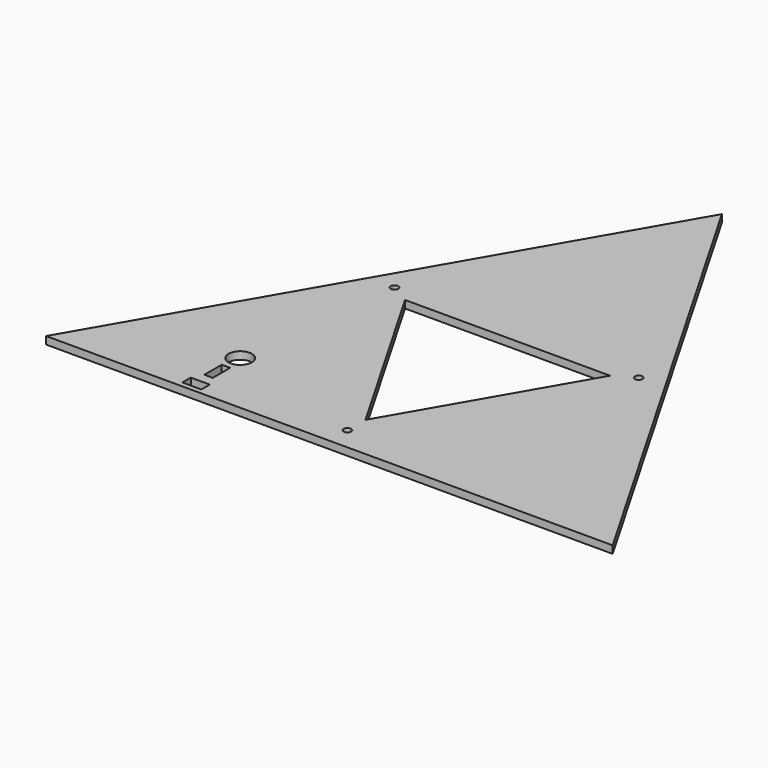
from build123d import *

# Parameters (mm, degrees)
F0_R     = 4.9022
F1_DEPTH = 3.175


with BuildPart() as f1:
    # F0 (on Top) → F1 (new body)
    with BuildSketch(Plane.XY):
        with BuildLine():
            Line((43.214022, 26.049825), (0.008622, -48.784123))
            Line((0.008622, -48.784123), (0.005029, -56.721344))
            ThreePointArc((0.005029, -56.721344), (1.127097, -57.186566), (1.591811, -58.308844))
            ThreePointArc((1.591811, -58.308844), (1.126589, -59.43163), (0.003592, -59.896344))
            Line((0.003592, -59.896344), (0, -67.833564))
            Line((0, -67.833564), (119.414022, -67.833564))
            Line((119.414022, -67.833564), (59.711322, 35.574545))
            Line((59.711322, 35.574545), (52.837487, 31.605935))
            ThreePointArc((52.837487, 31.605935), (52.996079, 31.22306), (53.050172, 30.812185))
            ThreePointArc((53.050172, 30.812185), (51.873547, 29.278778), (50.087856, 30.018435))
            Line((50.087856, 30.018435), (43.214022, 26.049825))
        make_face()
        with BuildLine():
            Line((-50.070613, 30.018435), (-43.196778, 26.049825))
            Line((-43.196778, 26.049825), (43.214022, 26.049825))
            Line((43.214022, 26.049825), (50.087856, 30.018435))
            ThreePointArc((50.087856, 30.018435), (50.668922, 32.187), (52.837487, 31.605935))
            Line((52.837487, 31.605935), (59.711322, 35.574545))
            Line((59.711322, 35.574545), (0.008622, 138.982655))
            Line((0.008622, 138.982655), (-59.694078, 35.574545))
            Line((-59.694078, 35.574545), (-52.820244, 31.605935))
            ThreePointArc((-52.820244, 31.605935), (-51.034553, 32.345592), (-49.857928, 30.812185))
            ThreePointArc((-49.857928, 30.812185), (-49.912021, 30.40131), (-50.070613, 30.018435))
        make_face()
        with BuildLine():
            Line((0.008622, -48.784123), (-43.196778, 26.049825))
            Line((-43.196778, 26.049825), (-50.070613, 30.018435))
            ThreePointArc((-50.070613, 30.018435), (-52.239178, 29.43737), (-52.820244, 31.605935))
            Line((-52.820244, 31.605935), (-59.694078, 35.574545))
            Line((-59.694078, 35.574545), (-119.396778, -67.833564))
            Line((-119.396778, -67.833564), (0, -67.833564))
            Line((0, -67.833564), (0.003592, -59.896344))
            ThreePointArc((0.003592, -59.896344), (-1.583189, -58.308125), (0.005029, -56.721344))
            Line((0.005029, -56.721344), (0.008622, -48.784123))
        make_face()
        Polygon((-63.696348, -65.656609), (-63.696348, -63.431569), (-63.696348, -61.206529), (-55.700428, -61.206529), (-55.700428, -63.431569), (-55.700428, -65.656609), align=None, mode=Mode.SUBTRACT)
        Polygon((-61.476388, -56.827569), (-61.476388, -52.255569), (-61.476388, -47.683569), (-57.920388, -47.683569), (-57.920388, -52.255569), (-57.920388, -56.827569), align=None, mode=Mode.SUBTRACT)
        with Locations((-59.698388, -40.190569)):
            Circle(F0_R, mode=Mode.SUBTRACT)
    extrude(amount=F1_DEPTH)


solid = f1.part
